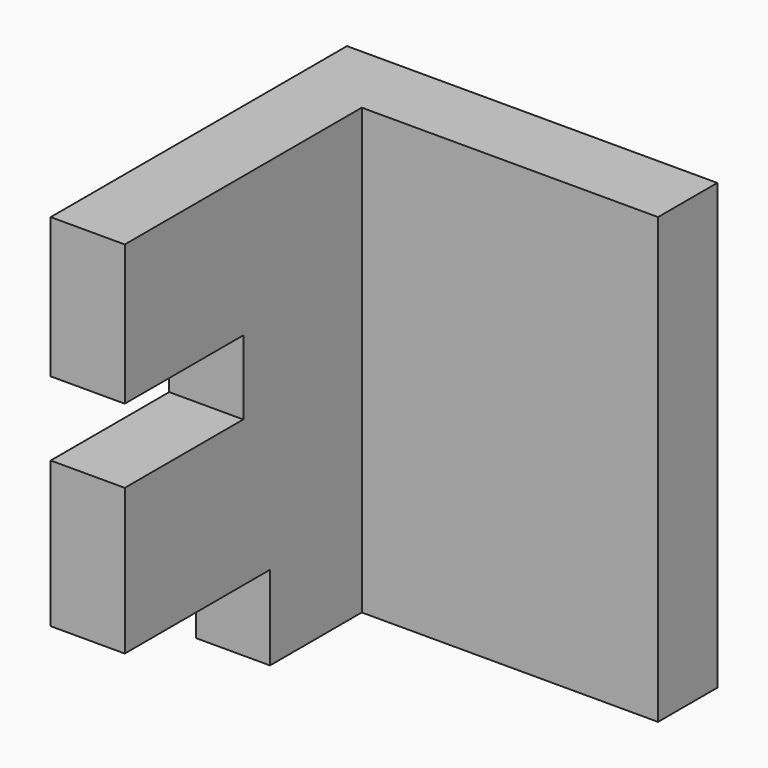
from build123d import *

# Parameters (mm, degrees)
F1_DEPTH = 76.2
F2_W     = 31.1273433149
F2_H     = 14.4479367882
F3_DEPTH = 25.4
F4_W     = 25.4
F4_H     = 12.7
F5_DEPTH = 25.4


with BuildPart() as f1:
    # F0 (on Top) → F1 (new body)
    with BuildSketch(Plane.XY):
        Polygon((-39.3005906213, 21.688469161), (-39.3005906213, -41.811530839), (-26.6005906213, -41.811530839), (-26.6005906213, 8.988469161), (24.1994093787, 8.988469161), (24.1994093787, 21.688469161), align=None)
    extrude(amount=F1_DEPTH)

    # F2 (on face) → F3 (cut)
    with BuildSketch(Plane.YZ.offset(-26.6005906213)):
        with Locations((-26.2478591815, 7.2239683941)):
            Rectangle(F2_W, F2_H)
    extrude(amount=-F3_DEPTH, mode=Mode.SUBTRACT)

    # F4 (on face) → F5 (cut)
    with BuildSketch(Plane.YZ.offset(-26.6005906213)):
        with Locations((-29.111530839, 45.8086510956)):
            Rectangle(F4_W, F4_H)
    extrude(amount=-F5_DEPTH, mode=Mode.SUBTRACT)


solid = f1.part
